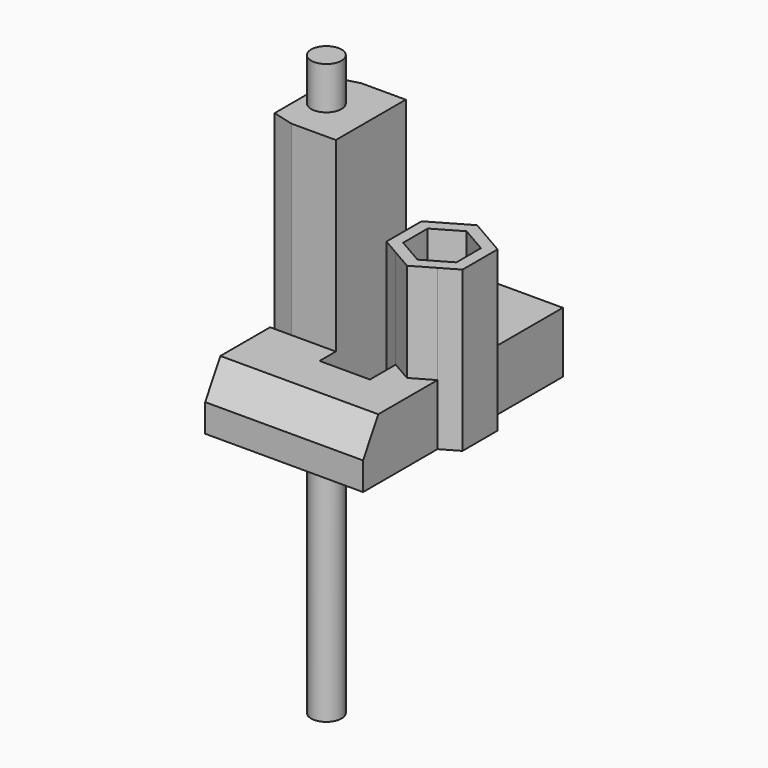
from build123d import *

# Parameters (mm, degrees)
F0_R      = 4
F1_DEPTH  = 76.2
F3_R      = 7.5
F3_R_2    = 4
F4_DEPTH  = 24
F5_DEPTH  = 65
F6_DEPTH  = 16
F7_DEPTH  = 42
F9_DEPTH  = 19.05
F11_DEPTH = 12.7
F12_R     = 4.25
F13_DEPTH = 99.151
F14_SIZE2 = 8.6602540378
F14_SIZE  = 5
F16_DEPTH = 60


with BuildPart() as f1:
    # F0 (on Top) → F1 (new body, symmetric)
    with BuildSketch(Plane.XY):
        Circle(F0_R)
    extrude(amount=F1_DEPTH, both=True)


with BuildPart() as f4:
    # F3 (on Top) → F4 (new body)
    with BuildSketch(Plane.XY):
        Circle(F3_R)
        Circle(F3_R_2, mode=Mode.SUBTRACT)
    extrude(amount=F4_DEPTH)


with BuildPart() as f5:
    # F2 (on Top) → F5 (new body)
    with BuildSketch(Plane.XY):
        Polygon((11.6998, 11.5), (0, 11.5), (-5.6002, 9.9994309325), (-5.6002, -9.9994309325), (0, -11.5), (11.6998, -11.5), align=None)
    extrude(amount=F5_DEPTH)

    # F2 (on Top) → F6 (join)
    with BuildSketch(Plane.XY):
        Polygon((11.6998, -16.85), (11.6998, -11.5), (0, -11.5), (-5.6002, -11.5), (-5.6002, -32.85), (35.95, -32.85), (35.95, -8.3715789032), (30.45, -11.5470053838), (24.95, -8.3715789032), (24.95, -16.85), align=None)
        Polygon((-5.6002, 11.5), (0, 11.5), (11.6998, 11.5), (11.6998, 16.85), (24.95, 16.85), (24.95, 8.3715789032), (30.45, 11.5470053838), (35.95, 8.3715789032), (35.95, 32.85), (-5.6002, 32.85), align=None)
        Polygon((30.45, 11.5470053838), (24.95, 8.3715789032), (35.95, 8.3715789032), align=None)
        Polygon((35.95, -8.3715789032), (24.95, -8.3715789032), (30.45, -11.5470053838), align=None)
    extrude(amount=F6_DEPTH)

    # F2 (on Top) → F7 (join)
    with BuildSketch(Plane.XY):
        Polygon((35.95, 8.3715789032), (24.95, 8.3715789032), (20.45, 5.7735026919), (20.45, -5.7735026919), (24.95, -8.3715789032), (35.95, -8.3715789032), (40.45, -5.7735026919), (40.45, 5.7735026919), align=None)
        Polygon((35.95, -8.3715789032), (24.95, -8.3715789032), (30.45, -11.5470053838), align=None)
        Polygon((30.45, 11.5470053838), (24.95, 8.3715789032), (35.95, 8.3715789032), align=None)
    extrude(amount=F7_DEPTH)

    # F8 (on face) → F9 (cut)
    with BuildSketch(Plane.XY.offset(42)):
        Polygon((30.45, -8.0829037687), (37.45, -4.0414518843), (37.45, 4.0414518843), (30.45, 8.0829037687), (23.45, 4.0414518843), (23.45, -4.0414518843), align=None)
    extrude(amount=-F9_DEPTH, mode=Mode.SUBTRACT)

    # F10 (on face) → F11 (cut)
    with BuildSketch(Plane.XY):
        Polygon((37.45, 4.0414518843), (30.45, 8.0829037687), (23.45, 4.0414518843), (23.45, -4.0414518843), (30.45, -8.0829037687), (37.45, -4.0414518843), align=None)
    extrude(amount=F11_DEPTH, mode=Mode.SUBTRACT)

    # F12 (on face) → F13 (cut, through all)
    with BuildSketch(Plane.XY.offset(22.95)):
        with Locations((30.45, 0)):
            Circle(F12_R)
    extrude(amount=-F13_DEPTH, mode=Mode.SUBTRACT)

    # F14
    f14_edges = [f5.edges().sort_by_distance(p)[0] for p in [
        (15.1749, -32.85, 16),
    ]]
    f14_side = f5.faces().sort_by_distance((15.217605, -22.61731, 16))[0]
    chamfer(f14_edges, length=F14_SIZE, length2=F14_SIZE2, reference=f14_side)

    # F15 (on face) → F16 (cut)
    with BuildSketch(Plane(origin=(0, 0, 0), x_dir=(1, 0, 0), z_dir=(0, 0, -1))):
        Polygon((-5.6002, 6.2494309325), (-5.6002, -6.2494309325), (0, -7.75), (7.6998, -7.75), (7.6998, 7.75), (0, 7.75), align=None)
    extrude(amount=-F16_DEPTH, mode=Mode.SUBTRACT)


solid = Compound([f1.part, f4.part, f5.part])
